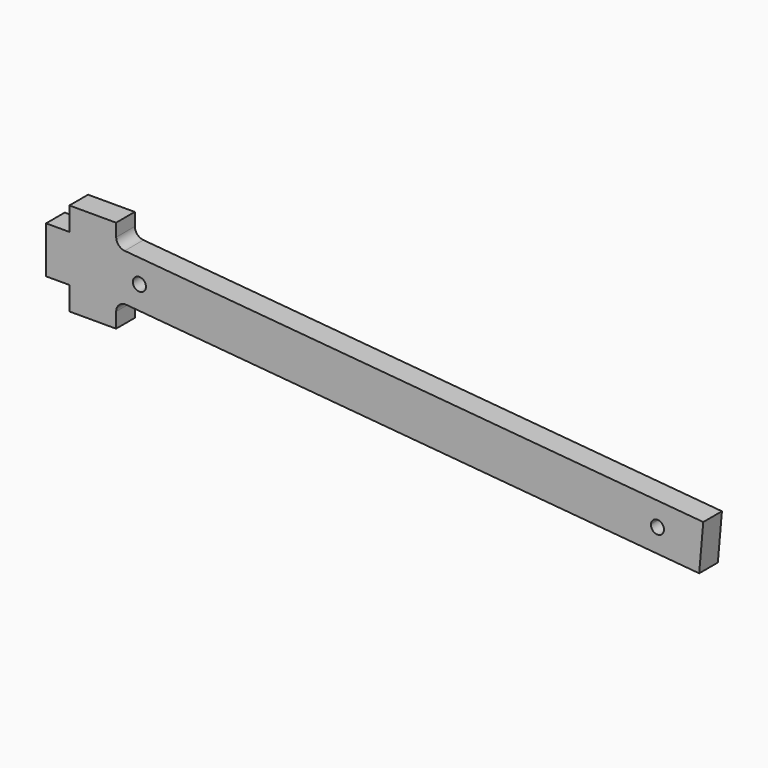
from build123d import *

# Parameters (mm, degrees)
F1_DEPTH = 5


with BuildPart() as f1:
    # F0 (on Front) → F1 (new body)
    with BuildSketch(Plane.XZ):
        with BuildLine():
            Line((-15, 5), (-20, 5))
            Line((-20, 5), (-20, -5))
            Line((-20, -5), (-15, -5))
            Line((-15, -5), (-15, -10))
            Line((-15, -10), (-5, -10))
            Line((-5, -10), (-4.97831, -6.752808))
            ThreePointArc((-4.97831, -6.752808), (-4.324603, -5.287108), (-2.804043, -4.773777))
            Line((-2.804043, -4.773777), (119.943381, -15.512785))
            Line((119.943381, -15.512785), (120.814938, -5.550838))
            Line((120.814938, -5.550838), (-3.150585, 5.29474))
            ThreePointArc((-3.150585, 5.29474), (-4.444925, 5.929534), (-4.976198, 7.269694))
            Line((-4.976198, 7.269694), (-5, 10))
            Line((-5, 10), (-15, 10))
            Line((-15, 10), (-15, 5))
        make_face()
        with BuildLine():
            ThreePointArc((112.4, -9.711242), (110.938933, -11.109909), (109.605327, -9.589224))
            ThreePointArc((109.605327, -9.589224), (111.061067, -8.312574), (112.4, -9.711242))
        make_face(mode=Mode.SUBTRACT)
        with BuildLine():
            ThreePointArc((1.394673, -0.122018), (-1.398668, 0.061067), (1.4, 0))
            ThreePointArc((1.4, 0), (1.398668, -0.061067), (1.394673, -0.122018))
        make_face(mode=Mode.SUBTRACT)
    extrude(amount=F1_DEPTH)


solid = f1.part
